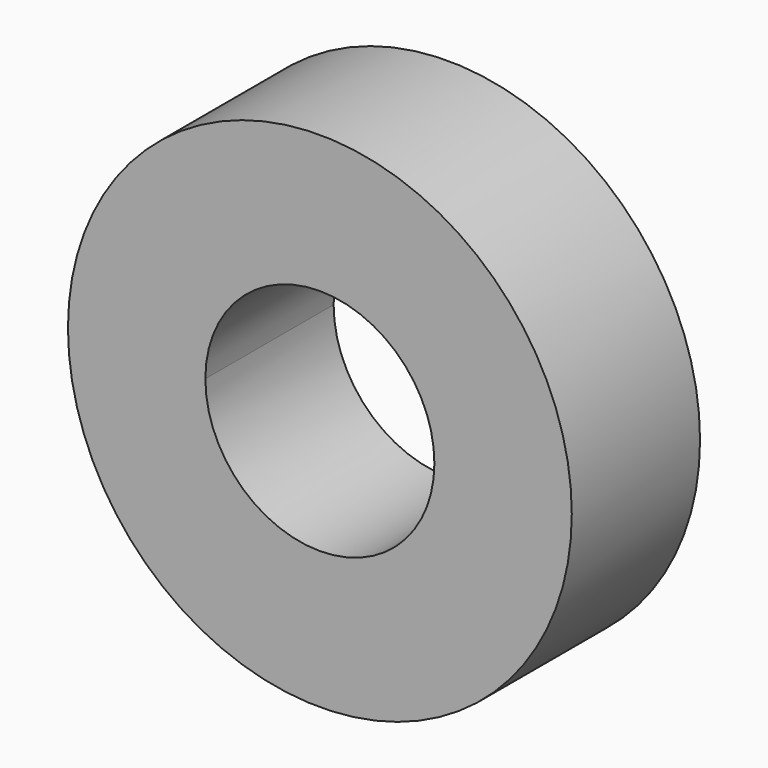
from build123d import *

# Parameters (mm, degrees)
F1_DEPTH = 7


with BuildPart() as f1:
    # F0 (on Front) → F1 (new body)
    with BuildSketch(Plane.XZ):
        with BuildLine():
            ThreePointArc((0, 10), (-7.071068, 7.071068), (-10, 0))
            Line((-10, 0), (-5, 0))
            ThreePointArc((-5, 0), (-3.535534, 3.535534), (0, 5))
            Line((0, 5), (0, 10))
        make_face()
        with BuildLine():
            ThreePointArc((-10, 0), (0, -10), (10, 0))
            Line((10, 0), (5, 0))
            ThreePointArc((5, 0), (0, -5), (-5, 0))
            Line((-5, 0), (-10, 0))
        make_face()
        with BuildLine():
            Line((5, 0), (10, 0))
            ThreePointArc((10, 0), (7.071068, 7.071068), (0, 10))
            Line((0, 10), (0, 5))
            ThreePointArc((0, 5), (3.535534, 3.535534), (5, 0))
        make_face()
        with BuildLine():
            ThreePointArc((-11, 0), (0, -11), (11, 0))
            Line((11, 0), (10, 0))
            ThreePointArc((10, 0), (0, -10), (-10, 0))
            Line((-10, 0), (-11, 0))
        make_face()
        with BuildLine():
            Line((10, 0), (11, 0))
            ThreePointArc((11, 0), (0, 11), (-11, 0))
            Line((-11, 0), (-10, 0))
            ThreePointArc((-10, 0), (-7.071068, 7.071068), (0, 10))
            ThreePointArc((0, 10), (7.071068, 7.071068), (10, 0))
        make_face()
    extrude(amount=F1_DEPTH)


solid = f1.part
